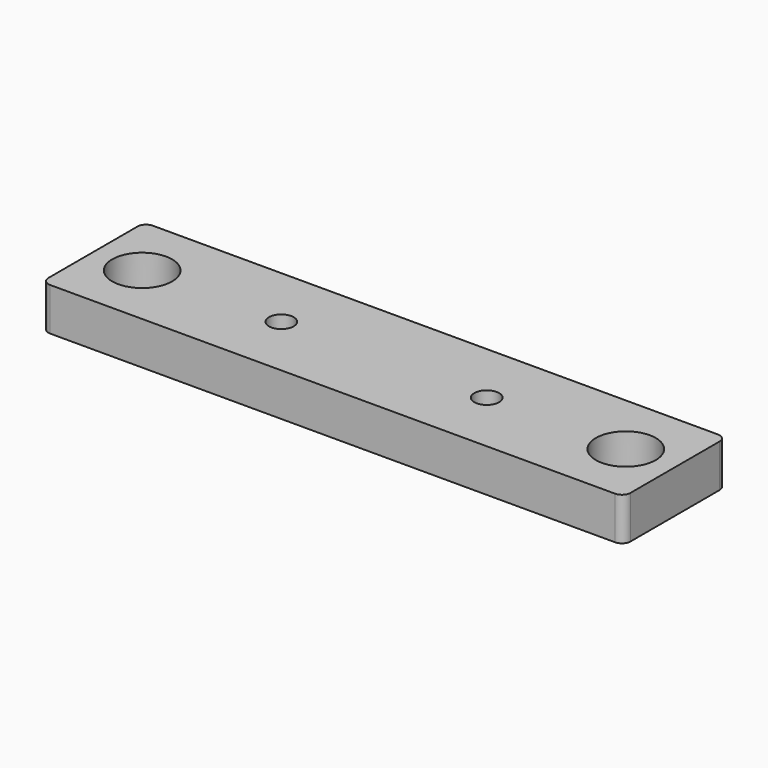
from build123d import *

# Parameters (mm, degrees)
SKETCH_W   = 68
SKETCH_H   = 15
SKETCH_R   = 3.5
SKETCH_R_2 = 1.45
PAD_DEPTH  = 5
FILLET_R   = 1


with BuildPart() as part:
    # Sketch → Pad (new body)
    with BuildSketch(Plane.XY):
        Rectangle(SKETCH_W, SKETCH_H)
        with Locations((-28.25, 0)):
            Circle(SKETCH_R, mode=Mode.SUBTRACT)
        with Locations((28.25, 0)):
            Circle(SKETCH_R, mode=Mode.SUBTRACT)
        with Locations((-12, 0)):
            Circle(SKETCH_R_2, mode=Mode.SUBTRACT)
        with Locations((12, 0)):
            Circle(SKETCH_R_2, mode=Mode.SUBTRACT)
    extrude(amount=PAD_DEPTH)

    # Fillet
    fillet_edges = [part.edges().sort_by_distance(p)[0] for p in [
        (34, -7.5, 2.5),
        (34, 7.5, 2.5),
        (-34, -7.5, 2.5),
        (-34, 7.5, 2.5),
    ]]
    fillet(fillet_edges, radius=FILLET_R)


solid = part.part
